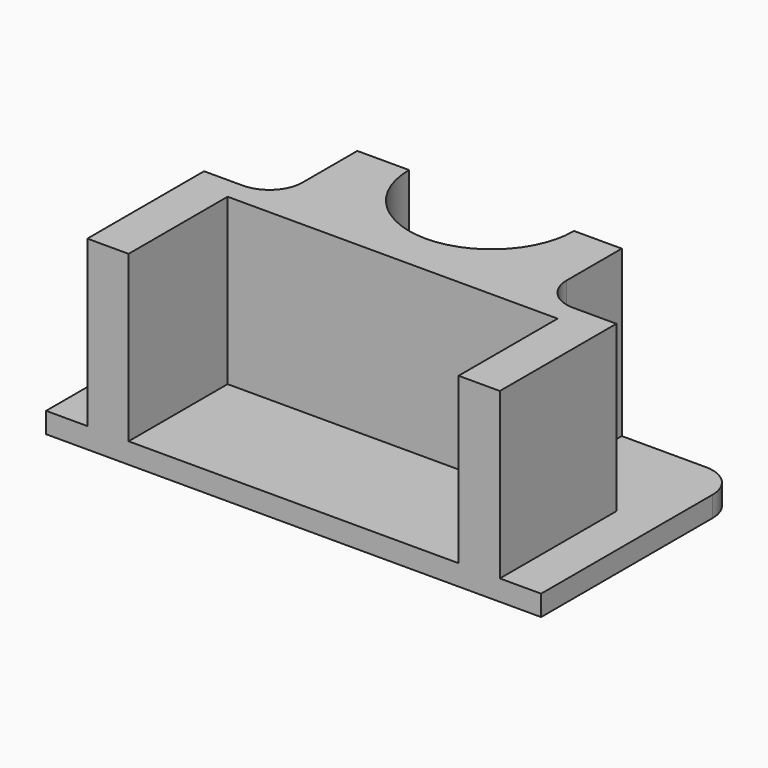
from build123d import *

# Parameters (mm, degrees)
F0_W      = 76.2
F0_H      = 38.1
F1_DEPTH  = 3.175
F2_R      = 5.08
F3_W      = 63.5
F3_H      = 38.1
F4_DEPTH  = 25.4
F5_W      = 50.8
F5_H      = 19.05
F6_DEPTH  = 25.4
F7_R      = 12.7
F8_DEPTH  = 28.576
F9_W      = 11.075838387
F9_H      = 15.6388808947
F10_DEPTH = 25.4
F11_R     = 5.08
F12_W     = 11.7130865455
F12_H     = 15.6796150815
F13_DEPTH = 25.4
F14_R     = 5.08


with BuildPart() as f1:
    # F0 (on Top) → F1 (new body)
    with BuildSketch(Plane.XY):
        Rectangle(F0_W, F0_H)
    extrude(amount=F1_DEPTH)

    # F2
    f2_edges = [f1.edges().sort_by_distance(p)[0] for p in [
        (-38.1, 19.05, 1.5875),
        (38.1, 19.05, 1.5875),
    ]]
    fillet(f2_edges, radius=F2_R)

    # F3 (on face) → F4 (join)
    with BuildSketch(Plane.XY.offset(3.175)):
        Rectangle(F3_W, F3_H)
    extrude(amount=F4_DEPTH)

    # F5 (on face) → F6 (cut)
    with BuildSketch(Plane.XY.offset(28.575)):
        with Locations((0, -9.525)):
            Rectangle(F5_W, F5_H)
    extrude(amount=-F6_DEPTH, mode=Mode.SUBTRACT)

    # F7 (on face) → F8 (cut, through all)
    with BuildSketch(Plane.XY.offset(28.575)):
        with Locations((0, 19.05)):
            Circle(F7_R)
    extrude(amount=-F8_DEPTH, mode=Mode.SUBTRACT)

    # F9 (on face) → F10 (cut)
    with BuildSketch(Plane.XY.offset(28.575)):
        with Locations((-26.2120808065, 11.2305595526)):
            Rectangle(F9_W, F9_H)
    extrude(amount=-F10_DEPTH, mode=Mode.SUBTRACT)

    # F11
    f11_edges = [f1.edges().sort_by_distance(p)[0] for p in [
        (-20.674162, 3.411119, 15.875),
    ]]
    fillet(f11_edges, radius=F11_R)

    # F12 (on face) → F13 (cut)
    with BuildSketch(Plane.XY.offset(28.575)):
        with Locations((25.8934567273, 11.2101924593)):
            Rectangle(F12_W, F12_H)
    extrude(amount=-F13_DEPTH, mode=Mode.SUBTRACT)

    # F14
    f14_edges = [f1.edges().sort_by_distance(p)[0] for p in [
        (20.036913, 3.370385, 15.875),
    ]]
    fillet(f14_edges, radius=F14_R)


solid = f1.part
